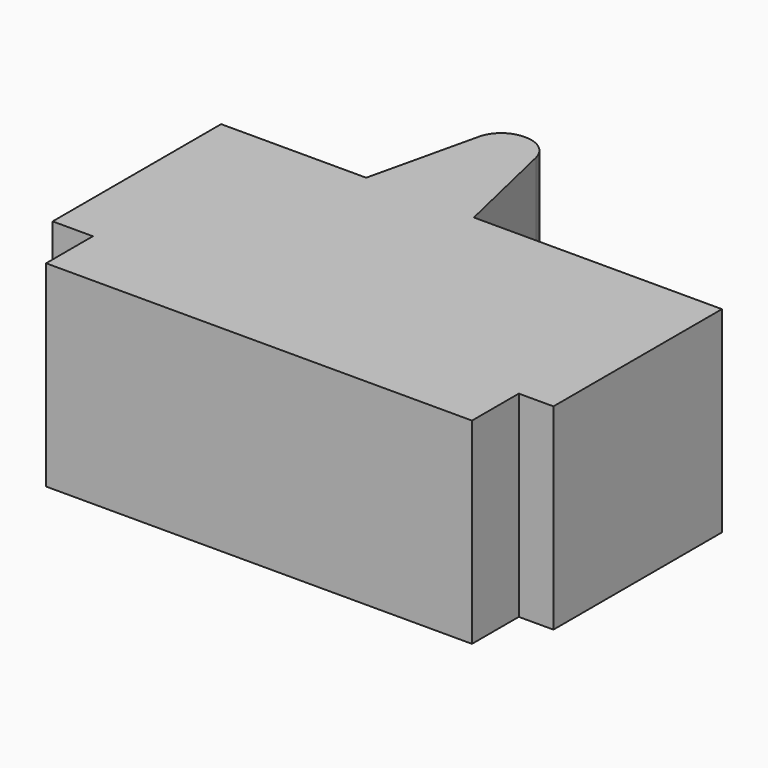
from build123d import *

# Parameters (mm, degrees)
F0_W     = 91
F0_H     = 12.5
F1_DEPTH = 42
F2_R     = 6


with BuildPart() as f1:
    # F0 (on Top) → F1 (new body)
    with BuildSketch(Plane.XY):
        Polygon((-26.282259, 45), (-26.282259, 0), (-17.682259, 0), (73.317741, 0), (80.717741, 0), (80.717741, 45), (27.717741, 45), (4.717741, 45), align=None)
        with Locations((27.817741, -6.25)):
            Rectangle(F0_W, F0_H)
        Polygon((11.217741, 73), (4.717741, 45), (27.717741, 45), (21.217741, 73), align=None)
    extrude(amount=F1_DEPTH)

    # F2
    f2_edges = [f1.edges().sort_by_distance(p)[0] for p in [
        (11.217741, 73, 21),
        (21.217741, 73, 21),
    ]]
    fillet(f2_edges, radius=F2_R)


solid = f1.part
